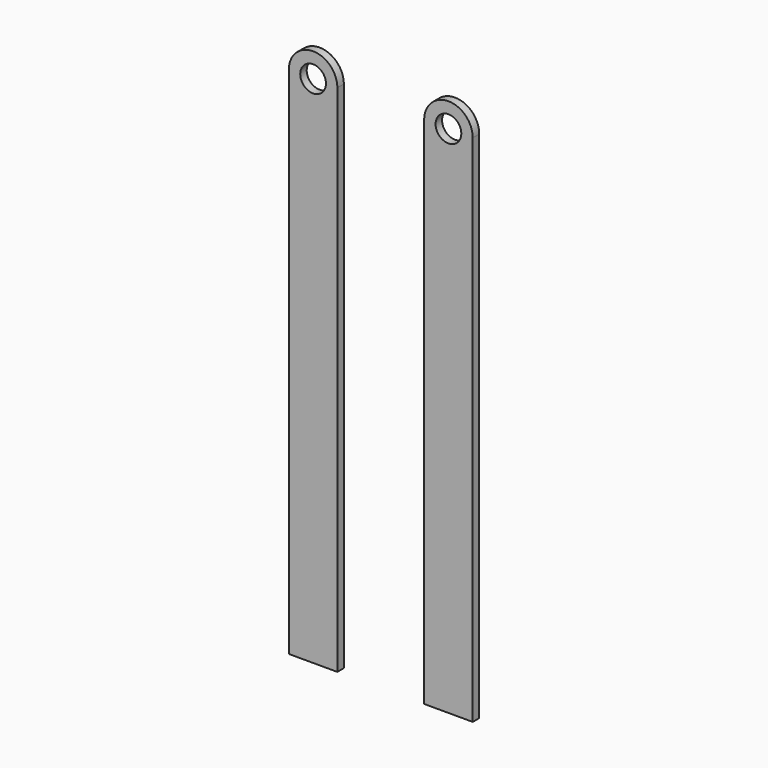
from build123d import *

# Parameters (mm, degrees)
F0_R     = 2.2225
F1_DEPTH = 2
F2_D     = 6.35
F2_2_D   = 6.35


with BuildPart() as f1:
    # F0 (on Front) → F1 (new body)
    with BuildSketch(Plane.XZ):
        with BuildLine():
            Line((-111.9437609911, -6.5890456444), (-111.9437609911, 120.4109543556))
            ThreePointArc((-111.9437609911, 120.4109543556), (-117.9437609911, 126.4109543556), (-123.9437609911, 120.4109543556))
            Line((-123.9437609911, 120.4109543556), (-123.9437609911, -6.5890456444))
            Line((-123.9437609911, -6.5890456444), (-111.9437609911, -6.5890456444))
        make_face()
        with Locations((-117.9437609911, 120.4109543556)):
            Circle(F0_R, mode=Mode.SUBTRACT)
    extrude(amount=F1_DEPTH)

    # F2 (through all)
    with Locations(Plane(origin=(0, 0, 0), x_dir=(1, 0, 0), z_dir=(0, 1, 0))):
        with Locations((-117.9437609911, -120.4109543556), (-84.5102802153, -120.4109543556)):
            Hole(F2_D / 2)


with BuildPart() as f1b:
    # F0 (on Front) → F1, piece 2 (new body)
    with BuildSketch(Plane.XZ):
        with BuildLine():
            ThreePointArc((-78.5102802153, 120.4109543556), (-84.5102802153, 126.4109543556), (-90.5102802153, 120.4109543556))
            Line((-90.5102802153, 120.4109543556), (-90.5102802153, -6.5890456444))
            Line((-90.5102802153, -6.5890456444), (-78.5102802153, -6.5890456444))
            Line((-78.5102802153, -6.5890456444), (-78.5102802153, 120.4109543556))
        make_face()
        with Locations((-84.5102802153, 120.4109543556)):
            Circle(F0_R, mode=Mode.SUBTRACT)
    extrude(amount=F1_DEPTH)

    # F2#2 (through all)
    with Locations(Plane(origin=(0, 0, 0), x_dir=(1, 0, 0), z_dir=(0, 1, 0))):
        with Locations((-117.9437609911, -120.4109543556), (-84.5102802153, -120.4109543556)):
            Hole(F2_2_D / 2)


solid = Compound([f1.part, f1b.part])
